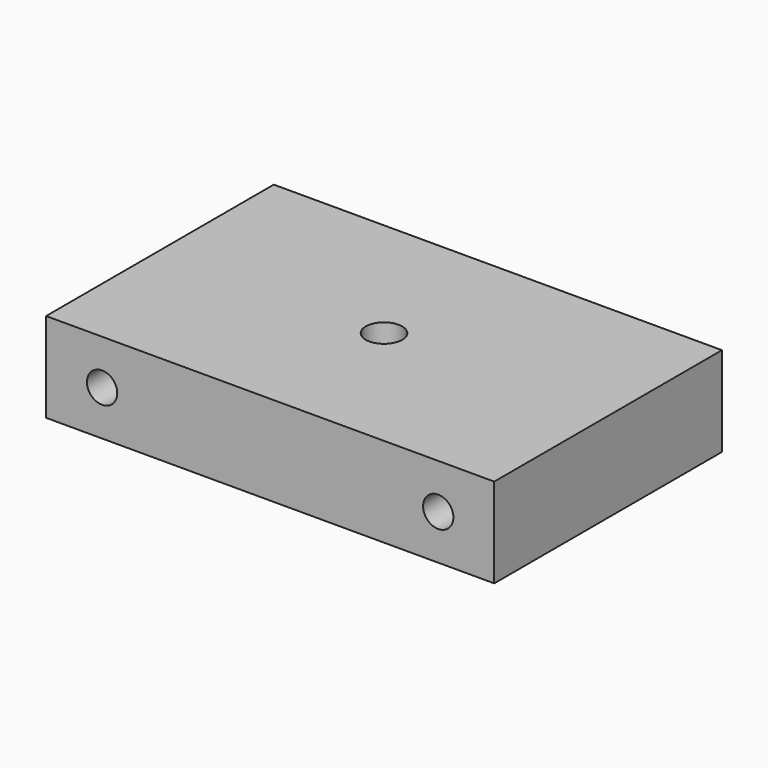
from build123d import *

# Parameters (mm, degrees)
F0_W     = 40
F0_H     = 25.4
F1_DEPTH = 8
F3_R     = 1.35255
F4_DEPTH = 6.35
F2_R     = 1.625
F5_DEPTH = 25.4


with BuildPart() as f1:
    # F0 (on Top) → F1 (new body)
    with BuildSketch(Plane.XY):
        with Locations((20, 12.7)):
            Rectangle(F0_W, F0_H)
    extrude(amount=F1_DEPTH)

    # F3 (on face) → F4 (cut)
    with BuildSketch(Plane.XZ):
        with Locations((5, 4)):
            Circle(F3_R)
        with Locations((35, 4)):
            Circle(F3_R)
    extrude(amount=-F4_DEPTH, mode=Mode.SUBTRACT)

    # F2 (on face) → F5 (cut)
    with BuildSketch(Plane.XY.offset(8)):
        with Locations((20, 12.7)):
            Circle(F2_R)
    extrude(amount=-F5_DEPTH, mode=Mode.SUBTRACT)


solid = f1.part
